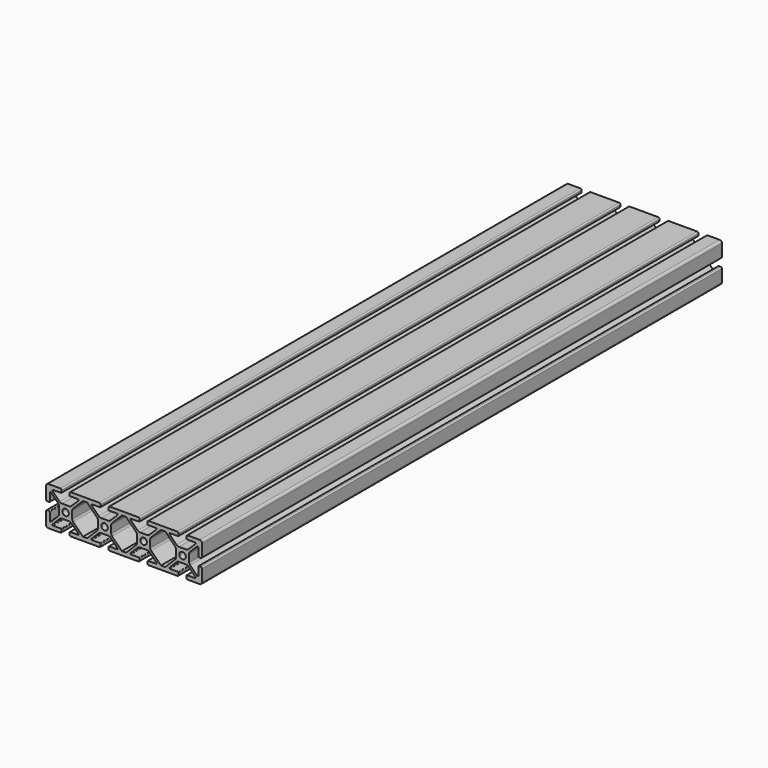
from build123d import *

# Parameters (mm, degrees)
F0_R     = 2.5
F1_DEPTH = 500


with BuildPart() as f1:
    # F0 (on Front) → F1 (new body)
    with BuildSketch(Plane.XZ):
        with BuildLine():
            ThreePointArc((-60, -13.2), (-59.472792, -14.472792), (-58.2, -15))
            Line((-58.2, -15), (-49, -15))
            ThreePointArc((-49, -15), (-48.292893, -14.707107), (-48, -14))
            Line((-48, -14), (-48, -12.6))
            ThreePointArc((-48, -12.6), (-48.146447, -12.246447), (-48.5, -12.1))
            Line((-48.5, -12.1), (-54.620101, -12.1))
            ThreePointArc((-54.620101, -12.1), (-55.082041, -11.791342), (-54.973654, -11.246447))
            Line((-54.973654, -11.246447), (-49.559441, -5.832233))
            ThreePointArc((-49.559441, -5.832233), (-48.748382, -5.290301), (-47.791674, -5.1))
            Line((-47.791674, -5.1), (-42.208326, -5.1))
            ThreePointArc((-42.208326, -5.1), (-41.251618, -5.290301), (-40.440559, -5.832233))
            Line((-40.440559, -5.832233), (-35.026346, -11.246447))
            ThreePointArc((-35.026346, -11.246447), (-34.917959, -11.791342), (-35.379899, -12.1))
            Line((-35.379899, -12.1), (-41.5, -12.1))
            ThreePointArc((-41.5, -12.1), (-41.853553, -12.246447), (-42, -12.6))
            Line((-42, -12.6), (-42, -14))
            ThreePointArc((-42, -14), (-41.707107, -14.707107), (-41, -15))
            Line((-41, -15), (-30, -15))
            Line((-30, -15), (-19, -15))
            ThreePointArc((-19, -15), (-18.292893, -14.707107), (-18, -14))
            Line((-18, -14), (-18, -12.6))
            ThreePointArc((-18, -12.6), (-18.146447, -12.246447), (-18.5, -12.1))
            Line((-18.5, -12.1), (-24.620101, -12.1))
            ThreePointArc((-24.620101, -12.1), (-25.082041, -11.791342), (-24.973654, -11.246447))
            Line((-24.973654, -11.246447), (-19.559441, -5.832233))
            ThreePointArc((-19.559441, -5.832233), (-18.748382, -5.290301), (-17.791674, -5.1))
            Line((-17.791674, -5.1), (-12.208326, -5.1))
            ThreePointArc((-12.208326, -5.1), (-11.251618, -5.290301), (-10.440559, -5.832233))
            Line((-10.440559, -5.832233), (-5.026346, -11.246447))
            ThreePointArc((-5.026346, -11.246447), (-4.917959, -11.791342), (-5.379899, -12.1))
            Line((-5.379899, -12.1), (-11.5, -12.1))
            ThreePointArc((-11.5, -12.1), (-11.853553, -12.246447), (-12, -12.6))
            Line((-12, -12.6), (-12, -14))
            ThreePointArc((-12, -14), (-11.707107, -14.707107), (-11, -15))
            Line((-11, -15), (0, -15))
            Line((0, -15), (0, -12.1))
            Line((0, -12.1), (-1.627208, -12.1))
            Line((-1.627208, -12.1), (-9.167767, -4.559441))
            ThreePointArc((-9.167767, -4.559441), (-9.709699, -3.748382), (-9.9, -2.791674))
            Line((-9.9, -2.791674), (-9.9, 2.791674))
            ThreePointArc((-9.9, 2.791674), (-9.709699, 3.748382), (-9.167767, 4.559441))
            Line((-9.167767, 4.559441), (-1.627208, 12.1))
            Line((-1.627208, 12.1), (0, 12.1))
            Line((0, 12.1), (0, 15))
            Line((0, 15), (-11, 15))
            ThreePointArc((-11, 15), (-11.707107, 14.707107), (-12, 14))
            Line((-12, 14), (-12, 12.6))
            ThreePointArc((-12, 12.6), (-11.853553, 12.246447), (-11.5, 12.1))
            Line((-11.5, 12.1), (-5.379899, 12.1))
            ThreePointArc((-5.379899, 12.1), (-4.917959, 11.791342), (-5.026346, 11.246447))
            Line((-5.026346, 11.246447), (-10.440559, 5.832233))
            ThreePointArc((-10.440559, 5.832233), (-11.251618, 5.290301), (-12.208326, 5.1))
            Line((-12.208326, 5.1), (-17.791674, 5.1))
            ThreePointArc((-17.791674, 5.1), (-18.748382, 5.290301), (-19.559441, 5.832233))
            Line((-19.559441, 5.832233), (-24.973654, 11.246447))
            ThreePointArc((-24.973654, 11.246447), (-25.082041, 11.791342), (-24.620101, 12.1))
            Line((-24.620101, 12.1), (-18.5, 12.1))
            ThreePointArc((-18.5, 12.1), (-18.146447, 12.246447), (-18, 12.6))
            Line((-18, 12.6), (-18, 14))
            ThreePointArc((-18, 14), (-18.292893, 14.707107), (-19, 15))
            Line((-19, 15), (-30, 15))
            Line((-30, 15), (-41, 15))
            ThreePointArc((-41, 15), (-41.707107, 14.707107), (-42, 14))
            Line((-42, 14), (-42, 12.6))
            ThreePointArc((-42, 12.6), (-41.853553, 12.246447), (-41.5, 12.1))
            Line((-41.5, 12.1), (-35.379899, 12.1))
            ThreePointArc((-35.379899, 12.1), (-34.917959, 11.791342), (-35.026346, 11.246447))
            Line((-35.026346, 11.246447), (-40.440559, 5.832233))
            ThreePointArc((-40.440559, 5.832233), (-41.251618, 5.290301), (-42.208326, 5.1))
            Line((-42.208326, 5.1), (-47.791674, 5.1))
            ThreePointArc((-47.791674, 5.1), (-48.748382, 5.290301), (-49.559441, 5.832233))
            Line((-49.559441, 5.832233), (-54.973654, 11.246447))
            ThreePointArc((-54.973654, 11.246447), (-55.082041, 11.791342), (-54.620101, 12.1))
            Line((-54.620101, 12.1), (-48.5, 12.1))
            ThreePointArc((-48.5, 12.1), (-48.146447, 12.246447), (-48, 12.6))
            Line((-48, 12.6), (-48, 14))
            ThreePointArc((-48, 14), (-48.292893, 14.707107), (-49, 15))
            Line((-49, 15), (-58.2, 15))
            ThreePointArc((-58.2, 15), (-59.472792, 14.472792), (-60, 13.2))
            Line((-60, 13.2), (-60, 4))
            ThreePointArc((-60, 4), (-59.707107, 3.292893), (-59, 3))
            Line((-59, 3), (-57.6, 3))
            ThreePointArc((-57.6, 3), (-57.246447, 3.146447), (-57.1, 3.5))
            Line((-57.1, 3.5), (-57.1, 9.620101))
            ThreePointArc((-57.1, 9.620101), (-56.791342, 10.082041), (-56.246447, 9.973654))
            Line((-56.246447, 9.973654), (-50.832233, 4.559441))
            ThreePointArc((-50.832233, 4.559441), (-50.290301, 3.748382), (-50.1, 2.791674))
            Line((-50.1, 2.791674), (-50.1, -2.791674))
            ThreePointArc((-50.1, -2.791674), (-50.290301, -3.748382), (-50.832233, -4.559441))
            Line((-50.832233, -4.559441), (-56.246447, -9.973654))
            ThreePointArc((-56.246447, -9.973654), (-56.791342, -10.082041), (-57.1, -9.620101))
            Line((-57.1, -9.620101), (-57.1, -3.5))
            ThreePointArc((-57.1, -3.5), (-57.246447, -3.146447), (-57.6, -3))
            Line((-57.6, -3), (-59, -3))
            ThreePointArc((-59, -3), (-59.707107, -3.292893), (-60, -4))
            Line((-60, -4), (-60, -13.2))
        make_face()
        with Locations((-45, 0)):
            Circle(F0_R, mode=Mode.SUBTRACT)
        with BuildLine():
            Line((-28.372792, -12.1), (-31.627208, -12.1))
            Line((-31.627208, -12.1), (-39.167767, -4.559441))
            ThreePointArc((-39.167767, -4.559441), (-39.709699, -3.748382), (-39.9, -2.791674))
            Line((-39.9, -2.791674), (-39.9, 2.791674))
            ThreePointArc((-39.9, 2.791674), (-39.709699, 3.748382), (-39.167767, 4.559441))
            Line((-39.167767, 4.559441), (-31.627208, 12.1))
            Line((-31.627208, 12.1), (-28.372792, 12.1))
            Line((-28.372792, 12.1), (-20.832233, 4.559441))
            ThreePointArc((-20.832233, 4.559441), (-20.290301, 3.748382), (-20.1, 2.791674))
            Line((-20.1, 2.791674), (-20.1, -2.791674))
            ThreePointArc((-20.1, -2.791674), (-20.290301, -3.748382), (-20.832233, -4.559441))
            Line((-20.832233, -4.559441), (-28.372792, -12.1))
        make_face(mode=Mode.SUBTRACT)
        with Locations((-15, 0)):
            Circle(F0_R, mode=Mode.SUBTRACT)
    extrude(amount=F1_DEPTH)

    # F2: F1 across plane


with BuildPart() as f1_1:
    add(f1.part)
    add(f1.part.mirror(Plane.YZ))


solid = f1_1.part
